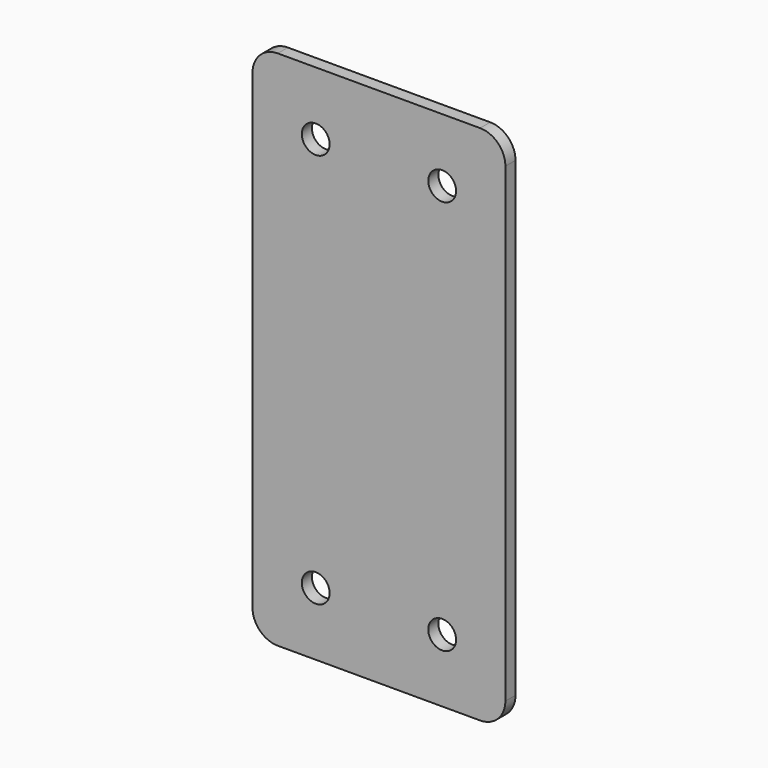
from build123d import *

# Parameters (mm, degrees)
F1_DEPTH = 2.5
F3_D     = 11
F3_DEPTH = 24.5
F3_TIP   = 3.3047334047


with BuildPart() as f1:
    # F0 (on Front) → F1 (new body, symmetric)
    with BuildSketch(Plane.XZ):
        with BuildLine():
            Line((40, 103.1), (-40, 103.1))
            ThreePointArc((-40, 103.1), (-47.0710678119, 100.1710678119), (-50, 93.1))
            Line((-50, 93.1), (-50, -93.1))
            ThreePointArc((-50, -93.1), (-47.0710678119, -100.1710678119), (-40, -103.1))
            Line((-40, -103.1), (40, -103.1))
            ThreePointArc((40, -103.1), (47.0710678119, -100.1710678119), (50, -93.1))
            Line((50, -93.1), (50, 93.1))
            ThreePointArc((50, 93.1), (47.0710678119, 100.1710678119), (40, 103.1))
        make_face()
    extrude(amount=F1_DEPTH, both=True)

    # F3
    with Locations(Plane.XZ.offset(2.5)):
        with Locations((-25, 78.1), (25, 78.1), (25, -78.1), (-25, -78.1)):
            Hole(F3_D / 2, depth=F3_DEPTH)
            with Locations((0, 0, -(F3_DEPTH + F3_TIP / 2))):  # 118° drill point
                Cone(0, F3_D / 2, F3_TIP, mode=Mode.SUBTRACT)


solid = f1.part
